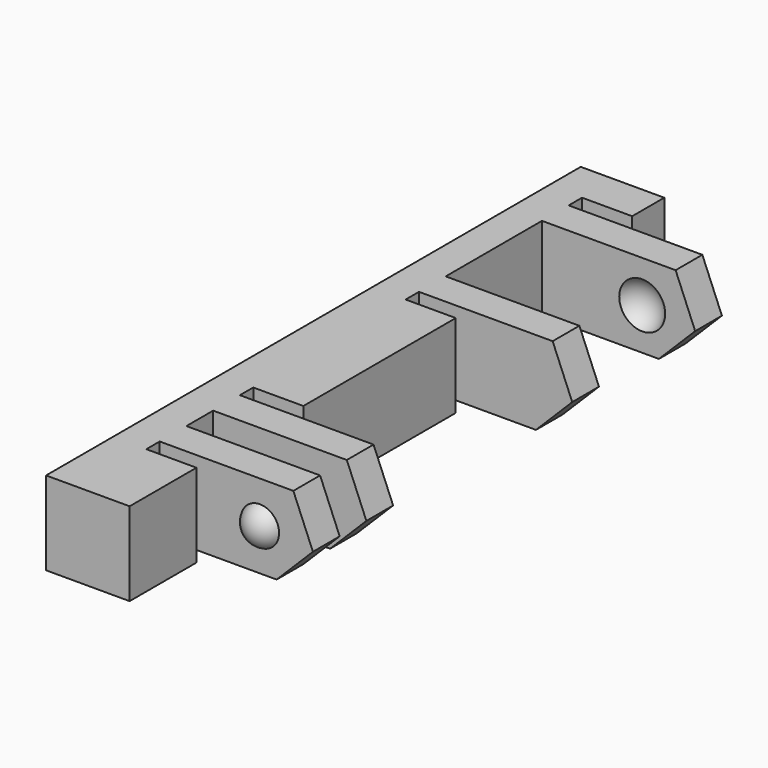
from build123d import *

# Parameters (mm, degrees)
BOX124_W               = 12
BOX124_H               = 44
BOX124_DEPTH           = 10
BOX119_W               = 4
BOX119_H               = 1
BOX119_DEPTH           = 7
BOX127_W               = 4
BOX127_H               = 1
BOX127_DEPTH           = 7
BOX128_W               = 4
BOX128_H               = 2
BOX128_DEPTH           = 7
BOX130_W               = 4
BOX130_H               = 1
BOX130_DEPTH           = 7
BOX122_W               = 4
BOX122_H               = 1
BOX122_DEPTH           = 7
BOX121_W               = 4
BOX121_H               = 7.2
BOX121_DEPTH           = 7
BOX120_W               = 13
BOX120_H               = 40
BOX120_DEPTH           = 10
BOX120_PITCH_ANGLE     = -45
BOX123_W               = 10
BOX123_H               = 2
BOX123_DEPTH           = 7
BOX126_W               = 10
BOX126_H               = 2
BOX126_DEPTH           = 7
BOX125_W               = 10
BOX125_H               = 2
BOX125_DEPTH           = 7
BOX129_W               = 10
BOX129_H               = 2
BOX129_DEPTH           = 7
BOX131_W               = 5
BOX131_H               = 40
BOX131_DEPTH           = 7
CHAMFER011_SIZE        = 4
CUT034_PLACEMENT_ANGLE = 180
CUT033_PLACEMENT_ANGLE = 180


with BuildPart() as cube108:
    # Box124 → Box124 (new body)
    with BuildSketch(Plane(origin=(-11, -2, -12), x_dir=(1, 0, 0), z_dir=(0, 0, 1))):
        with Locations((6, 22)):
            Rectangle(BOX124_W, BOX124_H)
    extrude(amount=BOX124_DEPTH)


with BuildPart() as cube103:
    # Box119 → Box119 (new body)
    with BuildSketch(Plane(origin=(-1, 12, 0), x_dir=(1, 0, 0), z_dir=(0, 0, 1))):
        with Locations((2, 0.5)):
            Rectangle(BOX119_W, BOX119_H)
    extrude(amount=BOX119_DEPTH)


with BuildPart() as cube111:
    # Box127 → Box127 (new body)
    with BuildSketch(Plane(origin=(-1, 36.6, 0), x_dir=(1, 0, 0), z_dir=(0, 0, 1))):
        with Locations((2, 0.5)):
            Rectangle(BOX127_W, BOX127_H)
    extrude(amount=BOX127_DEPTH)


with BuildPart() as cube112:
    # Box128 → Box128 (new body)
    with BuildSketch(Plane(origin=(-1, 8, 0), x_dir=(1, 0, 0), z_dir=(0, 0, 1))):
        with Locations((2, 1)):
            Rectangle(BOX128_W, BOX128_H)
    extrude(amount=BOX128_DEPTH)


with BuildPart() as cube114:
    # Box130 → Box130 (new body)
    with BuildSketch(Plane(origin=(-1, 24.4, 0), x_dir=(1, 0, 0), z_dir=(0, 0, 1))):
        with Locations((2, 0.5)):
            Rectangle(BOX130_W, BOX130_H)
    extrude(amount=BOX130_DEPTH)


with BuildPart() as cube106:
    # Box122 → Box122 (new body)
    with BuildSketch(Plane(origin=(-1, 5, 0), x_dir=(1, 0, 0), z_dir=(0, 0, 1))):
        with Locations((2, 0.5)):
            Rectangle(BOX122_W, BOX122_H)
    extrude(amount=BOX122_DEPTH)


with BuildPart() as fusion038:
    # Box121 → Box121 (new body)
    with BuildSketch(Plane(origin=(-1, 27.4, 0), x_dir=(1, 0, 0), z_dir=(0, 0, 1))):
        with Locations((2, 3.6)):
            Rectangle(BOX121_W, BOX121_H)
    extrude(amount=BOX121_DEPTH)

    # Fusion038: union Cube103, Cube111, Cube112, Cube114, Cube106
    add(cube103.part)
    add(cube111.part)
    add(cube112.part)
    add(cube114.part)
    add(cube106.part)


with BuildPart() as sphere044:
    # Sphere044 → Sphere044 (revolve)
    with BuildSketch(Plane(origin=(-3, 28, 2.5), x_dir=(1, 0, 0), z_dir=(0, -1, 0))):
        with BuildLine():
            ThreePointArc((0, -1.5), (1.5, 0), (0, 1.5))
            Line((0, 1.5), (0, -1.5))
        make_face()
    revolve(axis=Axis((-3, 28, 2.5), (0, 0, 1)))


with BuildPart() as fusion040:
    # Sphere046 → Sphere046 (revolve)
    with BuildSketch(Plane(origin=(-3, 34, 2.5), x_dir=(1, 0, 0), z_dir=(0, -1, 0))):
        with BuildLine():
            ThreePointArc((0, -1.5), (1.5, 0), (0, 1.5))
            Line((0, 1.5), (0, -1.5))
        make_face()
    revolve(axis=Axis((-3, 34, 2.5), (0, 0, 1)))

    # Fusion040: union Sphere044
    add(sphere044.part)


with BuildPart() as sphere045:
    # Sphere045 → Sphere045 (revolve)
    with BuildSketch(Plane(origin=(-3, 11.5, 2.5), x_dir=(1, 0, 0), z_dir=(0, -1, 0))):
        with BuildLine():
            ThreePointArc((0, -1.25), (1.25, 0), (0, 1.25))
            Line((0, 1.25), (0, -1.25))
        make_face()
    revolve(axis=Axis((-3, 11.5, 2.5), (0, 0, 1)))


with BuildPart() as cube104:
    # Box120 → Box120 (new body)
    with BuildSketch(Plane.XY):
        with Locations((6.5, 20)):
            Rectangle(BOX120_W, BOX120_H)
    extrude(amount=BOX120_DEPTH)


with BuildPart() as cube104_1:
    # Box120 pitch: moved
    add(cube104.part.rotate(Axis((0, 0, 0), (0, 1, 0)), BOX120_PITCH_ANGLE))


with BuildPart() as cube104_2:
    # Box120 placement: moved
    add(cube104_1.part.moved(Location((-10.19, 0, -1.19))))


with BuildPart() as cube107:
    # Box123 → Box123 (new body)
    with BuildSketch(Plane(origin=(-10, 6, 0), x_dir=(1, 0, 0), z_dir=(0, 0, 1))):
        with Locations((5, 1)):
            Rectangle(BOX123_W, BOX123_H)
    extrude(amount=BOX123_DEPTH)


with BuildPart() as cube110:
    # Box126 → Box126 (new body)
    with BuildSketch(Plane(origin=(-10, 10, 0), x_dir=(1, 0, 0), z_dir=(0, 0, 1))):
        with Locations((5, 1)):
            Rectangle(BOX126_W, BOX126_H)
    extrude(amount=BOX126_DEPTH)


with BuildPart() as cube109:
    # Box125 → Box125 (new body)
    with BuildSketch(Plane(origin=(-10, 25.4, 0), x_dir=(1, 0, 0), z_dir=(0, 0, 1))):
        with Locations((5, 1)):
            Rectangle(BOX125_W, BOX125_H)
    extrude(amount=BOX125_DEPTH)


with BuildPart() as cube113:
    # Box129 → Box129 (new body)
    with BuildSketch(Plane(origin=(-10, 34.6, 0), x_dir=(1, 0, 0), z_dir=(0, 0, 1))):
        with Locations((5, 1)):
            Rectangle(BOX129_W, BOX129_H)
    extrude(amount=BOX129_DEPTH)


with BuildPart() as cut035:
    # Box131 → Box131 (new body)
    with BuildSketch(Plane.XY):
        with Locations((2.5, 20)):
            Rectangle(BOX131_W, BOX131_H)
    extrude(amount=BOX131_DEPTH)

    # Fusion041: union Cube107, Cube110, Cube109, Cube113
    add(cube107.part)
    add(cube110.part)
    add(cube109.part)
    add(cube113.part)

    # Cut035: cut Cube104
    add(cube104_2.part, mode=Mode.SUBTRACT)


with BuildPart() as cut033:
    # Sphere043 → Sphere043 (revolve)
    with BuildSketch(Plane(origin=(-3, 6.5, 2.5), x_dir=(1, 0, 0), z_dir=(0, -1, 0))):
        with BuildLine():
            ThreePointArc((0, -1.25), (1.25, 0), (0, 1.25))
            Line((0, 1.25), (0, -1.25))
        make_face()
    revolve(axis=Axis((-3, 6.5, 2.5), (0, 0, 1)))

    # Fusion039: union Sphere045, Cut035
    add(sphere045.part)
    add(cut035.part)

    # Cut036: cut Fusion040
    add(fusion040.part, mode=Mode.SUBTRACT)

    # Chamfer011
    chamfer011_edges = [cut033.edges().sort_by_distance(p)[0] for p in [
        (-9, 7, 0),
        (-9, 11, 0),
        (-9, 35.6, 0),
        (-9, 26.4, 0),
    ]]
    chamfer(chamfer011_edges, length=CHAMFER011_SIZE)

    # Cut034: cut Fusion038
    add(fusion038.part, mode=Mode.SUBTRACT)


with BuildPart() as cut033_1:
    # Cut034 placement: moved
    add(cut033.part.moved(Location((-5, 40, 3))).rotate(Axis((-5, 40, 3), (1, 0, 0)), CUT034_PLACEMENT_ANGLE))

    # Cut033: cut Cube108
    add(cube108.part, mode=Mode.SUBTRACT)


with BuildPart() as cut033_2:
    # Cut033 placement: moved
    add(cut033_1.part.moved(Location((40, 40, 0))).rotate(Axis((40, 40, 0), (0, 0, 1)), CUT033_PLACEMENT_ANGLE))


solid = cut033_2.part
